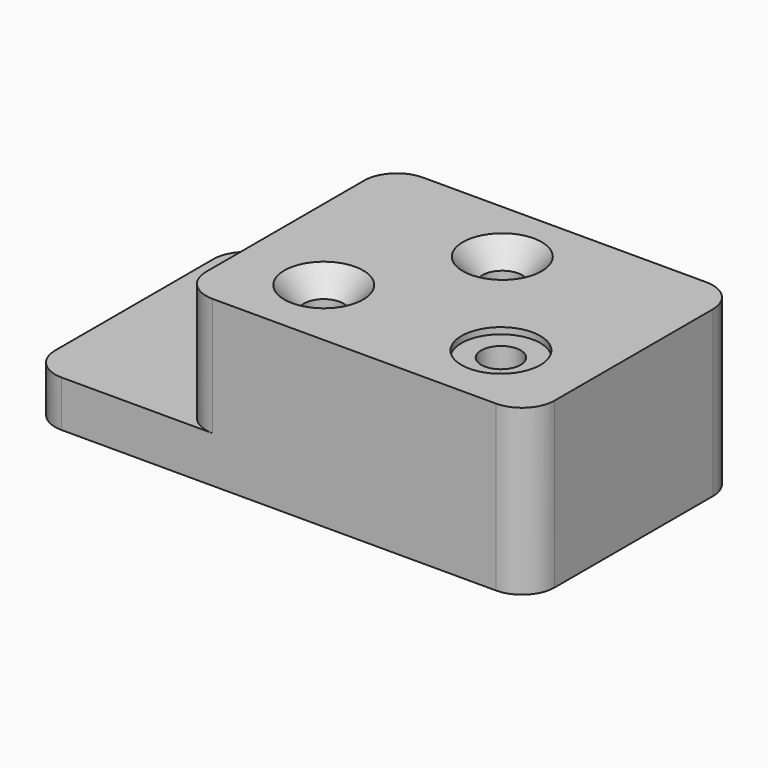
from build123d import *

# Parameters (mm, degrees)
F1_DEPTH       = 22.352
F3_DEPTH       = 57.15
F5_D           = 19.05
F5_CBORE_D     = 38.1
F5_CBORE_DEPTH = 3.048
F7_D           = 19.05
F7_CBORE_D     = 38.1
F7_CBORE_DEPTH = 3.048
F8_D           = 19.05
F8_CSINK_D     = 38.1
F8_CSINK_ANGLE = 82


with BuildPart() as f1:
    # F0 (on Top) → F1 (new body)
    with BuildSketch(Plane.XY):
        with BuildLine():
            Line((111.252, 63.5), (-98.552, 63.5))
            ThreePointArc((-98.552, 63.5), (-109.687518, 58.887518), (-114.3, 47.752))
            Line((-114.3, 47.752), (-114.3, -47.752))
            ThreePointArc((-114.3, -47.752), (-109.687518, -58.887518), (-98.552, -63.5))
            Line((-98.552, -63.5), (111.252, -63.5))
            ThreePointArc((111.252, -63.5), (122.387518, -58.887518), (127, -47.752))
            Line((127, -47.752), (127, 47.752))
            ThreePointArc((127, 47.752), (122.387518, 58.887518), (111.252, 63.5))
        make_face()
    extrude(amount=F1_DEPTH)

    # F2 (on face) → F3 (join)
    with BuildSketch(Plane.XY.offset(22.352)):
        with BuildLine():
            Line((-25.654, -63.5), (111.252, -63.5))
            ThreePointArc((111.252, -63.5), (122.387518, -58.887518), (127, -47.752))
            Line((127, -47.752), (127, 47.752))
            ThreePointArc((127, 47.752), (122.387518, 58.887518), (111.252, 63.5))
            Line((111.252, 63.5), (-25.654, 63.5))
            ThreePointArc((-25.654, 63.5), (-36.789518, 58.887518), (-41.402, 47.752))
            Line((-41.402, 47.752), (-41.402, -47.752))
            ThreePointArc((-41.402, -47.752), (-36.789518, -58.887518), (-25.654, -63.5))
        make_face()
    extrude(amount=F3_DEPTH)

    # F5 (through all)
    with Locations(Plane.XY.offset(22.352)):
        with Locations((-79.248, 31.75)):
            CounterBoreHole(F5_D / 2, F5_CBORE_D / 2, F5_CBORE_DEPTH)

    # F7 (through all)
    with Locations(Plane.XY.offset(79.502)):
        with Locations((85.598, -28.448)):
            CounterBoreHole(F7_D / 2, F7_CBORE_D / 2, F7_CBORE_DEPTH)

    # F8 (through all)
    with Locations(Plane.XY.offset(79.502)):
        with Locations((38.1, 31.75), (0, -28.448)):
            CounterSinkHole(F8_D / 2, F8_CSINK_D / 2, counter_sink_angle=F8_CSINK_ANGLE)


solid = f1.part
